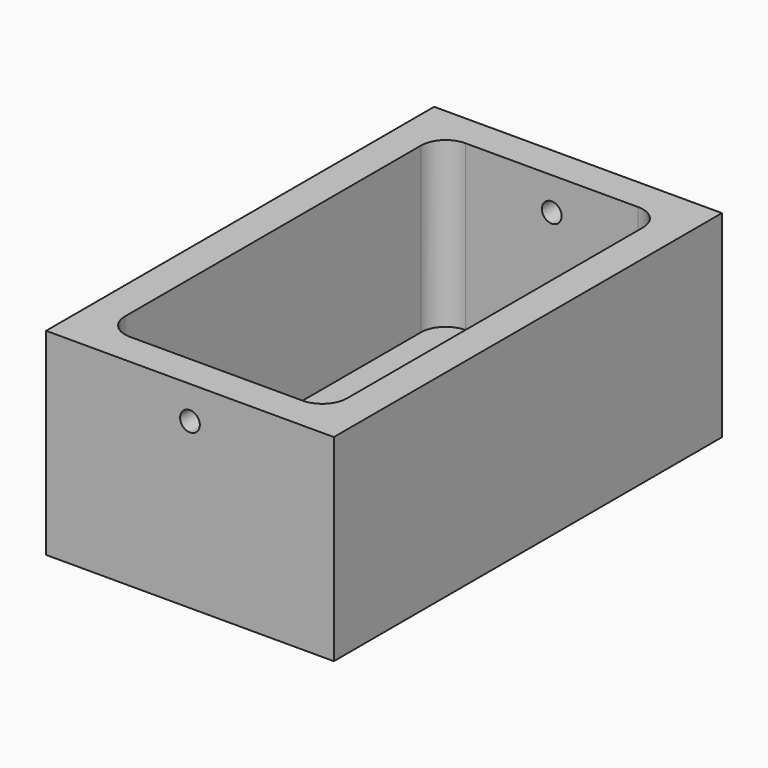
from build123d import *

# Parameters (mm, degrees)
F0_W     = 889
F0_H     = 1498.6
F1_DEPTH = 609.6
F2_W     = 685.8
F2_H     = 1295.4
F3_DEPTH = 508
F4_R     = 76.2
F5_R     = 76.2
F6_R     = 76.2
F7_R     = 76.2
F9_D     = 60.96
F11_D    = 60.96


with BuildPart() as f1:
    # F0 (on Top) → F1 (new body)
    with BuildSketch(Plane.XY):
        with Locations((-594.257204, -16.040897)):
            Rectangle(F0_W, F0_H)
    extrude(amount=F1_DEPTH)

    # F2 (on face) → F3 (cut)
    with BuildSketch(Plane.XY.offset(609.6)):
        with Locations((-594.257204, -16.040897)):
            Rectangle(F2_W, F2_H)
    extrude(amount=-F3_DEPTH, mode=Mode.SUBTRACT)

    # F4
    f4_edges = [f1.edges().sort_by_distance(p)[0] for p in [
        (-937.157204, 631.659103, 355.6),
    ]]
    fillet(f4_edges, radius=F4_R)

    # F5
    f5_edges = [f1.edges().sort_by_distance(p)[0] for p in [
        (-251.357204, 631.659103, 355.6),
    ]]
    fillet(f5_edges, radius=F5_R)

    # F6
    f6_edges = [f1.edges().sort_by_distance(p)[0] for p in [
        (-251.357204, -663.740897, 355.6),
    ]]
    fillet(f6_edges, radius=F6_R)

    # F7
    f7_edges = [f1.edges().sort_by_distance(p)[0] for p in [
        (-937.157204, -663.740897, 355.6),
    ]]
    fillet(f7_edges, radius=F7_R)

    # F9 (through all)
    with Locations(Plane.XZ.offset(-631.659103)):
        with Locations((-594.257204, 508)):
            Hole(F9_D / 2)

    # F11 (through all)
    with Locations(Plane(origin=(0, -663.740897, 0), x_dir=(-1, 0, 0), z_dir=(0, 1, 0))):
        with Locations((594.257204, 508)):
            Hole(F11_D / 2)


solid = f1.part
